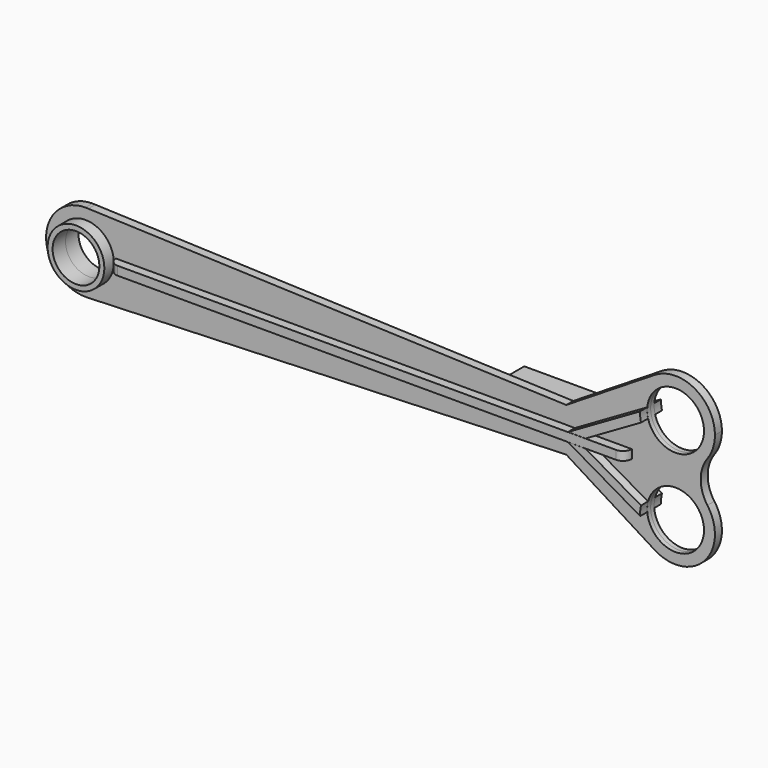
from build123d import *

# Parameters (mm, degrees)
F0_R          = 32.5
F0_W          = 100.2
F0_H          = 10.1
F1_DEPTH      = 5
F1_DEPTH_BACK = 5
F3_DEPTH      = 5
F3_DEPTH_BACK = 5
F5_DEPTH      = 10
F7_R          = 32.45
F7_R_2        = 26.75
F8_DEPTH      = 18.5
F8_DEPTH_BACK = 18.5


with BuildPart() as f1:
    # F0 (on Front) → F1 (new body, two sides)
    with BuildSketch(Plane.XZ) as f1_sk:
        with BuildLine():
            ThreePointArc((1.637721, -44.970189), (32.393652, -31.235417), (45, 0))
            ThreePointArc((45, 0), (32.955108, 30.642469), (3.268405, 44.881149))
            Line((3.268405, 44.881149), (0, 45))
            ThreePointArc((0, 45), (-44.992547, -0.818996), (1.637721, -44.970189))
        make_face()
        Circle(F0_R, mode=Mode.SUBTRACT)
        with BuildLine():
            ThreePointArc((3.268405, 44.881149), (32.955108, 30.642469), (45, 0))
            ThreePointArc((45, 0), (32.393652, -31.235417), (1.637721, -44.970189))
            Line((1.637721, -44.970189), (550, -25))
            Line((550, -25), (651.16602, -88.169902))
            ThreePointArc((651.16602, -88.169902), (707.924431, -80.675427), (711.391042, -23.529412))
            ThreePointArc((711.391042, -23.529412), (703.738635, 0), (711.391042, 23.529412))
            ThreePointArc((711.391042, 23.529412), (642.075569, 19.324573), (651.16602, 88.169902))
            Line((651.16602, 88.169902), (550, 25))
            Line((550, 25), (3.268405, 44.881149))
        make_face()
        with Locations((200, 0)):
            Rectangle(F0_W, F0_H, mode=Mode.SUBTRACT)
        with Locations((675, -50)):
            Circle(F0_R, mode=Mode.SUBTRACT)
        with Locations((500, 0)):
            Rectangle(F0_W, F0_H, mode=Mode.SUBTRACT)
        with BuildLine():
            Line((0, 45), (3.268405, 44.881149))
            ThreePointArc((3.268405, 44.881149), (1.635283, 44.970277), (0, 45))
        make_face()
        with BuildLine():
            ThreePointArc((720, 50), (696.822819, 89.354346), (651.16602, 88.169902))
            ThreePointArc((651.16602, 88.169902), (642.075569, 19.324573), (711.391042, 23.529412))
            ThreePointArc((711.391042, 23.529412), (717.793673, 36.08233), (720, 50))
        make_face()
        with Locations((675, 50)):
            Circle(F0_R, mode=Mode.SUBTRACT)
    extrude(amount=F1_DEPTH)
    extrude(f1_sk.sketch, amount=-F1_DEPTH_BACK)


with BuildPart() as f3:
    # F2 (on Top) → F3 (new body, two sides)
    with BuildSketch(Plane.XY) as f3_sk:
        with BuildLine():
            ThreePointArc((35, -5.05), (37.928932, -12.121068), (45, -15.05))
            Line((45, -15.05), (615, -15.05))
            ThreePointArc((615, -15.05), (622.071068, -12.121068), (625, -5.05))
            Line((625, -5.05), (550, -5.05))
            Line((550, -5.05), (550, 59.95))
            Line((550, 59.95), (450, 59.95))
            Line((450, 59.95), (450, -5.05))
            Line((450, -5.05), (250, -5.05))
            Line((250, -5.05), (250, 9.95))
            Line((250, 9.95), (150, 9.95))
            Line((150, 9.95), (150, -5.05))
            Line((150, -5.05), (35, -5.05))
        make_face()
    extrude(amount=F3_DEPTH)
    extrude(f3_sk.sketch, amount=-F3_DEPTH_BACK)


with BuildPart() as f5:
    # F4 (on face) → F5 (new body)
    with BuildSketch(Plane(origin=(0, 5, 0), x_dir=(-1, 0, 0), z_dir=(0, 1, 0))):
        with BuildLine():
            Line((-580, -5.1), (-643.463602, -41.740728))
            ThreePointArc((-643.463602, -41.740728), (-642.520462, -47.200068), (-642.515374, -52.740274))
            Line((-642.515374, -52.740274), (-560, -5.1))
            Line((-560, -5.1), (-580, -5.1))
        make_face()
        with BuildLine():
            Line((-643.463602, 41.740728), (-580, 5.1))
            Line((-580, 5.1), (-560, 5.1))
            Line((-560, 5.1), (-642.515374, 52.740274))
            ThreePointArc((-642.515374, 52.740274), (-642.520462, 47.200068), (-643.463602, 41.740728))
        make_face()
    extrude(amount=F5_DEPTH)


with BuildPart() as f6_1:
    # F6: instance of F5
    add(f5.part.mirror(Plane.XZ))


with BuildPart() as f8:
    # F7 (on Front) → F8 (new body, two sides)
    with BuildSketch(Plane.XZ) as f8_sk:
        Circle(F7_R)
        Circle(F7_R_2, mode=Mode.SUBTRACT)
    extrude(amount=F8_DEPTH)
    extrude(f8_sk.sketch, amount=-F8_DEPTH_BACK)


solid = Compound([f1.part, f3.part, f5.part, f6_1.part, f8.part])
